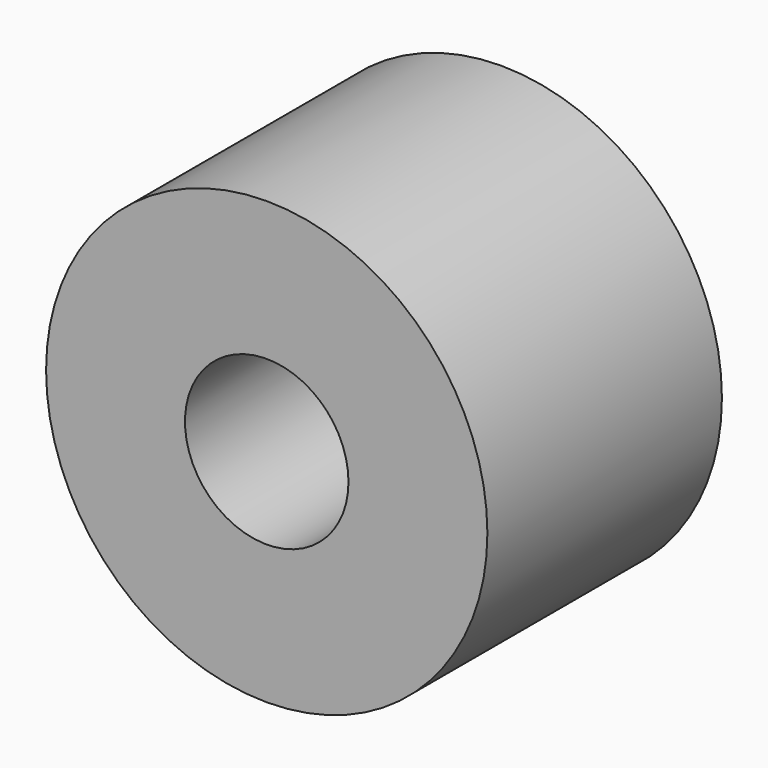
from build123d import *

# Parameters (mm, degrees)
F0_R     = 28.676555
F1_DEPTH = 38.1
F2_R     = 10.624572
F2_R_2   = 8.961837
F3_DEPTH = 34.925


with BuildPart() as f1:
    # F0 (on Front) → F1 (new body)
    with BuildSketch(Plane.XZ):
        Circle(F0_R)
    extrude(amount=F1_DEPTH)

    # F2 (on face) → F3 (cut)
    with BuildSketch(Plane.XZ.offset(38.1)):
        Circle(F2_R)
        Circle(F2_R_2, mode=Mode.SUBTRACT)
        Circle(F2_R_2)
    extrude(amount=-F3_DEPTH, mode=Mode.SUBTRACT)


solid = f1.part
